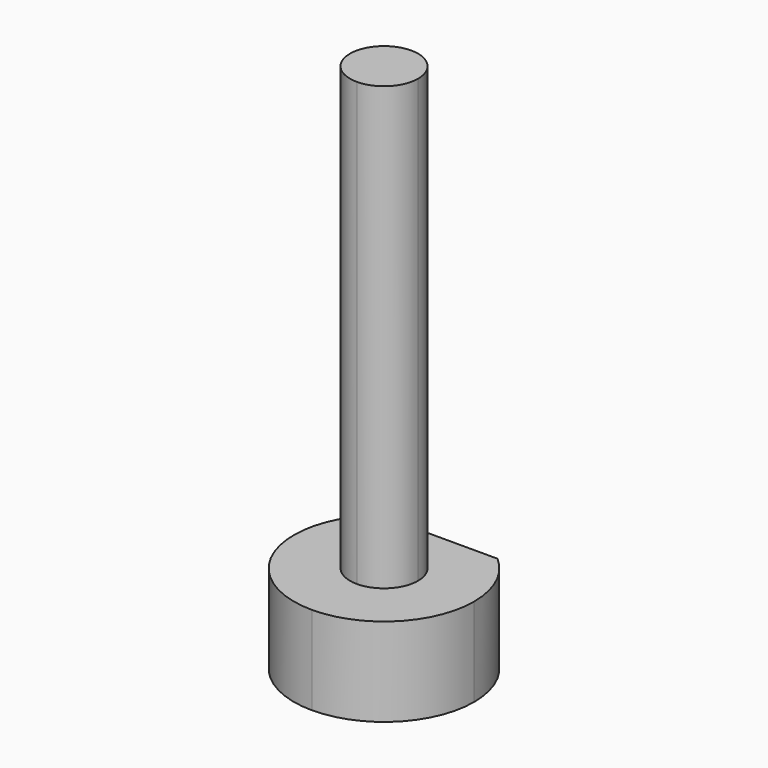
from build123d import *

# Parameters (mm, degrees)
F1_DEPTH = 2.6
F2_DEPTH = 13
F3_DEPTH = 2


with BuildPart() as f1:
    # F0 (on Top) → F1 (new body)
    with BuildSketch(Plane.XY):
        with BuildLine():
            ThreePointArc((0, -2.65), (1.8738329701, -1.8738329701), (2.65, 0))
            ThreePointArc((2.65, 0), (2.4113911693, 1.0989506944), (1.7385338651, 2))
            Line((1.7385338651, 2), (0, 2))
            Line((0, 2), (0, 1))
            ThreePointArc((0, 1), (0.7071067812, 0.7071067812), (1, 0))
            ThreePointArc((1, 0), (0.7071067812, -0.7071067812), (0, -1))
            Line((0, -1), (0, -2.65))
        make_face()
        with BuildLine():
            ThreePointArc((-1.7385338651, 2), (-2.4821865361, -0.9280355597), (0, -2.65))
            Line((0, -2.65), (0, -1))
            ThreePointArc((0, -1), (-1, 0), (0, 1))
            Line((0, 1), (0, 2))
            Line((0, 2), (-1.7385338651, 2))
        make_face()
    extrude(amount=-F1_DEPTH)


with BuildPart() as f2:
    # F0 (on Top) → F2 (new body)
    with BuildSketch(Plane.XY):
        with BuildLine():
            ThreePointArc((0, 1), (-1, 0), (0, -1))
            Line((0, -1), (0, 1))
        make_face()
        with BuildLine():
            Line((0, 1), (0, -1))
            ThreePointArc((0, -1), (0.7071067812, -0.7071067812), (1, 0))
            ThreePointArc((1, 0), (0.7071067812, 0.7071067812), (0, 1))
        make_face()
    extrude(amount=F2_DEPTH)


with BuildPart() as f3:
    # F3 (new): a face of the model
    f3_faces = [f2.part.faces().sort_by_distance(p)[0] for p in [
        (0, 0, 0),
    ]]
    extrude(f3_faces, amount=F3_DEPTH)


solid = Compound([f1.part, f2.part, f3.part])
